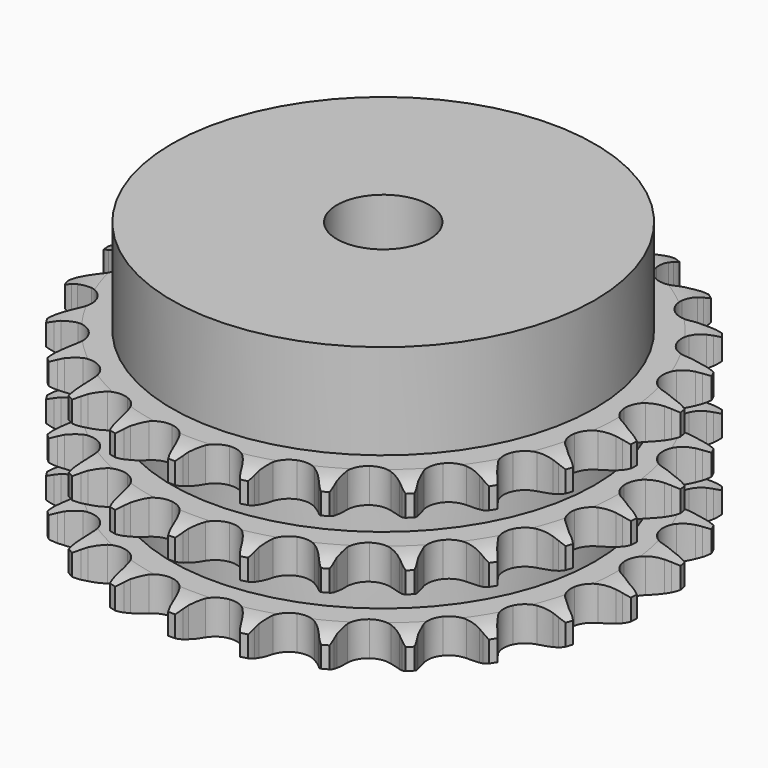
from build123d import *

# Parameters (mm, degrees)
PAD_DEPTH         = 25.6
SKETCH001_R       = 32
PAD001_DEPTH      = 40
SKETCH002_R       = 7
POCKET_DEPTH      = 0.001
POCKET_DEPTH_BACK = 40.001


with BuildPart() as part:
    # Sprocket → Pad (new body)
    with BuildSketch(Plane.XY):
        with BuildLine():
            ThreePointArc((-5.119133, 40.522108), (-4.471486, 39.716317), (-3.996424, 38.798134))
            Line((-3.996424, 38.798134), (-3.687726, 38.020039))
            ThreePointArc((-3.687726, 38.020039), (-3.194709, 36.990111), (-2.565145, 36.037499))
            ThreePointArc((-2.565145, 36.037499), (-1.430666, 35.103968), (0, 34.769725))
            ThreePointArc((0, 34.769725), (1.430666, 35.103968), (2.565145, 36.037499))
            ThreePointArc((2.565145, 36.037499), (3.194709, 36.990111), (3.687726, 38.020039))
            Line((3.687726, 38.020039), (3.996424, 38.798134))
            ThreePointArc((3.996424, 38.798134), (4.471486, 39.716317), (5.119133, 40.522108))
            ThreePointArc((5.119133, 40.522108), (5.54604, 39.58057), (5.777835, 38.573089))
            Line((5.777835, 38.573089), (5.88333, 37.74267))
            ThreePointArc((5.88333, 37.74267), (6.104725, 36.62249), (6.477605, 35.54324))
            ThreePointArc((6.477605, 35.54324), (7.344283, 34.356905), (8.646879, 33.677371))
            ThreePointArc((8.646879, 33.677371), (10.115721, 33.64532), (11.446718, 34.267389))
            Line((11.446718, 34.267389), (13.027069, 35.90847))
            ThreePointArc((13.027069, 35.90847), (13.264791, 36.253115), (13.519572, 36.585349))
            ThreePointArc((13.519572, 36.585349), (14.208053, 37.356543), (15.035744, 37.975955))
            ThreePointArc((15.035744, 37.975955), (15.215089, 36.957829), (15.18905, 35.924355))
            Line((15.18905, 35.924355), (15.084715, 35.09379))
            ThreePointArc((15.084715, 35.09379), (15.020577, 33.953744), (15.113344, 32.815669))
            ThreePointArc((15.113344, 32.815669), (15.657764, 31.45107), (16.750443, 30.468943))
            ThreePointArc((16.750443, 30.468943), (18.165168, 30.072613), (19.609051, 30.344133))
            Line((19.609051, 30.344133), (21.547873, 31.540639))
            ThreePointArc((21.547873, 31.540639), (21.863836, 31.815338), (22.193236, 32.073772))
            ThreePointArc((22.193236, 32.073772), (23.051875, 32.649519), (24.007605, 33.043633))
            ThreePointArc((24.007605, 33.043633), (23.928117, 32.012892), (23.645882, 31.018363))
            Line((23.645882, 31.018363), (23.338271, 30.239838))
            ThreePointArc((23.338271, 30.239838), (22.992631, 29.151559), (22.799455, 28.026169))
            ThreePointArc((22.799455, 28.026169), (22.987409, 26.56905), (23.801515, 25.346039))
            ThreePointArc((23.801515, 25.346039), (25.07323, 24.610333), (26.539276, 24.514244))
            Line((26.539276, 24.514244), (28.714744, 25.190994))
            ThreePointArc((28.714744, 25.190994), (29.089096, 25.378485), (29.472418, 25.546882))
            ThreePointArc((29.472418, 25.546882), (30.447263, 25.891007), (31.470979, 26.035058))
            ThreePointArc((31.470979, 26.035058), (31.137654, 25.056468), (30.616957, 24.163372))
            Line((30.616957, 24.163372), (30.125399, 23.485806))
            ThreePointArc((30.125399, 23.485806), (29.519973, 22.517674), (29.052993, 21.475681))
            ThreePointArc((29.052993, 21.475681), (28.872672, 20.017598), (29.35705, 18.630551))
            ThreePointArc((29.35705, 18.630551), (30.40585, 17.601696), (31.80194, 17.144034))
            Line((31.80194, 17.144034), (34.077363, 17.258506))
            ThreePointArc((34.077363, 17.258506), (34.486582, 17.347009), (34.899739, 17.414787))
            ThreePointArc((34.899739, 17.414787), (35.929538, 17.505666), (36.956916, 17.390605))
            ThreePointArc((36.956916, 17.390605), (36.390697, 16.525653), (35.664255, 15.790108))
            Line((35.664255, 15.790108), (35.019636, 15.256074))
            ThreePointArc((35.019636, 15.256074), (34.192466, 14.468921), (33.481025, 13.575797))
            ThreePointArc((33.481025, 13.575797), (32.943758, 12.208367), (33.067974, 10.744436))
            ThreePointArc((33.067974, 10.744436), (33.827958, 9.487079), (35.066372, 8.696602))
            Line((35.066372, 8.696602), (37.298776, 8.241602))
            ThreePointArc((37.298776, 8.241602), (37.717148, 8.225557), (38.134181, 8.188458))
            ThreePointArc((38.134181, 8.188458), (39.154228, 8.020381), (40.120714, 7.653436))
            ThreePointArc((40.120714, 7.653436), (39.357179, 6.956471), (38.470637, 6.424693))
            Line((38.470637, 6.424693), (37.713461, 6.067747))
            ThreePointArc((37.713461, 6.067747), (36.716522, 5.511033), (35.805321, 4.822897))
            ThreePointArc((35.805321, 4.822897), (34.944866, 3.632039), (34.701115, 2.183209))
            ThreePointArc((34.701115, 2.183209), (35.124531, 0.776354), (36.127454, -0.29727))
            Line((36.127454, -0.29727), (38.17657, -1.293151))
            ThreePointArc((38.17657, -1.293151), (38.577807, -1.412737), (38.972512, -1.552383))
            ThreePointArc((38.972512, -1.552383), (39.918713, -1.968854), (40.76358, -2.564627))
            ThreePointArc((40.76358, -2.564627), (39.850705, -3.049812), (38.859767, -3.344409))
            Line((38.859767, -3.344409), (38.037611, -3.501839))
            ThreePointArc((38.037611, -3.501839), (36.933543, -3.793134), (35.879836, -4.233045))
            ThreePointArc((35.879836, -4.233045), (34.75026, -5.172503), (34.153858, -6.515197))
            ThreePointArc((34.153858, -6.515197), (34.2141, -7.983152), (34.918516, -9.272463))
            Line((34.918516, -9.272463), (36.655589, -10.746651))
            ThreePointArc((36.655589, -10.746651), (37.014481, -10.962264), (37.362057, -11.195681))
            ThreePointArc((37.362057, -11.195681), (38.174959, -11.83438), (38.845121, -12.621545))
            ThreePointArc((38.845121, -12.621545), (37.840265, -12.864464), (36.807195, -12.903369))
            Line((36.807195, -12.903369), (35.971718, -12.851391))
            ThreePointArc((35.971718, -12.851391), (34.829894, -12.858964), (33.69989, -13.023008))
            ThreePointArc((33.69989, -13.023008), (32.372168, -13.652038), (31.460588, -14.804229))
            ThreePointArc((31.460588, -14.804229), (31.153872, -16.241048), (31.515518, -17.665033))
            Line((31.515518, -17.665033), (32.831403, -19.5249))
            ThreePointArc((32.831403, -19.5249), (33.125399, -19.822991), (33.404006, -20.135514))
            ThreePointArc((33.404006, -20.135514), (34.032532, -20.956307), (34.485879, -21.885404))
            ThreePointArc((34.485879, -21.885404), (33.452181, -21.870794), (32.441892, -21.651564))
            Line((32.441892, -21.651564), (31.645589, -21.393443))
            ThreePointArc((31.645589, -21.393443), (30.537754, -21.116818), (29.402455, -20.994688))
            ThreePointArc((29.402455, -20.994688), (27.960013, -21.273765), (26.790534, -22.163057))
            ThreePointArc((26.790534, -22.163057), (26.136132, -23.478458), (26.132285, -24.947645))
            Line((26.132285, -24.947645), (26.944299, -27.076327))
            ThreePointArc((26.944299, -27.076327), (27.154926, -27.438167), (27.347059, -27.810159))
            ThreePointArc((27.347059, -27.810159), (27.751716, -28.761473), (27.959763, -29.774124))
            ThreePointArc((27.959763, -29.774124), (26.962174, -29.502902), (26.038146, -29.03931))
            Line((26.038146, -29.03931), (25.331051, -28.591267))
            ThreePointArc((25.331051, -28.591267), (24.326815, -28.047825), (23.257556, -27.647195))
            ThreePointArc((23.257556, -27.647195), (21.791028, -27.558783), (20.437132, -28.129299))
            ThreePointArc((20.437132, -28.129299), (19.476162, -29.240631), (19.107065, -30.662704))
            Line((19.107065, -30.662704), (19.364185, -32.926449))
            ThreePointArc((19.364185, -32.926449), (19.478209, -33.329303), (19.571796, -33.737388))
            ThreePointArc((19.571796, -33.737388), (19.727157, -34.759449), (19.676832, -35.792025))
            ThreePointArc((19.676832, -35.792025), (18.778034, -35.281234), (17.998326, -34.602411))
            Line((17.998326, -34.602411), (17.424871, -33.992596))
            ThreePointArc((17.424871, -33.992596), (16.587333, -33.216484), (15.6513, -32.562526))
            ThreePointArc((15.6513, -32.562526), (14.252832, -32.112181), (12.79959, -32.328073))
            ThreePointArc((12.79959, -32.328073), (11.592433, -33.165507), (10.881277, -34.451112))
            Line((10.881277, -34.451112), (10.567349, -36.707681))
            ThreePointArc((10.567349, -36.707681), (10.577605, -37.126235), (10.566765, -37.544774))
            ThreePointArc((10.566765, -37.544774), (10.463069, -38.573362), (10.157534, -39.560982))
            ThreePointArc((10.157534, -39.560982), (9.414002, -38.842717), (8.827606, -37.991314))
            Line((8.827606, -37.991314), (8.423822, -37.258045))
            ThreePointArc((8.423822, -37.258045), (7.805608, -36.298029), (7.061614, -35.431835))
            ThreePointArc((7.061614, -35.431835), (5.819078, -34.647853), (4.357802, -34.495556))
            ThreePointArc((4.357802, -34.495556), (2.980309, -35.006473), (1.971778, -36.074831))
            Line((1.971778, -36.074831), (1.106527, -38.182435))
            ThreePointArc((1.106527, -38.182435), (1.012371, -38.590389), (0.897785, -38.993083))
            ThreePointArc((0.897785, -38.993083), (0.541547, -39.963568), (0, -40.844177))
            ThreePointArc((0, -40.844177), (-0.541547, -39.963568), (-0.897785, -38.993083))
            Line((-0.897785, -38.993083), (-1.106527, -38.182435))
            ThreePointArc((-1.106527, -38.182435), (-1.466573, -37.098836), (-1.971778, -36.074831))
            ThreePointArc((-1.971778, -36.074831), (-2.980309, -35.006473), (-4.357802, -34.495556))
            ThreePointArc((-4.357802, -34.495556), (-5.819078, -34.647853), (-7.061614, -35.431835))
            Line((-7.061614, -35.431835), (-8.423822, -37.258045))
            ThreePointArc((-8.423822, -37.258045), (-8.616474, -37.629768), (-8.827606, -37.991314))
            ThreePointArc((-8.827606, -37.991314), (-9.414002, -38.842717), (-10.157534, -39.560982))
            ThreePointArc((-10.157534, -39.560982), (-10.463069, -38.573362), (-10.566765, -37.544774))
            Line((-10.566765, -37.544774), (-10.567349, -36.707681))
            ThreePointArc((-10.567349, -36.707681), (-10.646603, -35.568586), (-10.881277, -34.451112))
            ThreePointArc((-10.881277, -34.451112), (-11.592433, -33.165507), (-12.79959, -32.328073))
            ThreePointArc((-12.79959, -32.328073), (-14.252832, -32.112181), (-15.6513, -32.562526))
            Line((-15.6513, -32.562526), (-17.424871, -33.992596))
            ThreePointArc((-17.424871, -33.992596), (-17.703914, -34.30473), (-17.998326, -34.602411))
            ThreePointArc((-17.998326, -34.602411), (-18.778034, -35.281234), (-19.676832, -35.792025))
            ThreePointArc((-19.676832, -35.792025), (-19.727157, -34.759449), (-19.571796, -33.737388))
            Line((-19.571796, -33.737388), (-19.364185, -32.926449))
            ThreePointArc((-19.364185, -32.926449), (-19.157668, -31.803431), (-19.107065, -30.662704))
            ThreePointArc((-19.107065, -30.662704), (-19.476162, -29.240631), (-20.437132, -28.129299))
            ThreePointArc((-20.437132, -28.129299), (-21.791028, -27.558783), (-23.257556, -27.647195))
            Line((-23.257556, -27.647195), (-25.331051, -28.591267))
            ThreePointArc((-25.331051, -28.591267), (-25.678953, -28.824199), (-26.038146, -29.03931))
            ThreePointArc((-26.038146, -29.03931), (-26.962174, -29.502902), (-27.959763, -29.774124))
            ThreePointArc((-27.959763, -29.774124), (-27.751716, -28.761473), (-27.347059, -27.810159))
            Line((-27.347059, -27.810159), (-26.944299, -27.076327))
            ThreePointArc((-26.944299, -27.076327), (-26.464986, -26.039949), (-26.132285, -24.947645))
            ThreePointArc((-26.132285, -24.947645), (-26.136132, -23.478458), (-26.790534, -22.163057))
            ThreePointArc((-26.790534, -22.163057), (-27.960013, -21.273765), (-29.402455, -20.994688))
            Line((-29.402455, -20.994688), (-31.645589, -21.393443))
            ThreePointArc((-31.645589, -21.393443), (-32.040488, -21.532538), (-32.441892, -21.651564))
            ThreePointArc((-32.441892, -21.651564), (-33.452181, -21.870794), (-34.485879, -21.885404))
            ThreePointArc((-34.485879, -21.885404), (-34.032532, -20.956307), (-33.404006, -20.135514))
            Line((-33.404006, -20.135514), (-32.831403, -19.5249))
            ThreePointArc((-32.831403, -19.5249), (-32.109412, -18.640282), (-31.515518, -17.665033))
            ThreePointArc((-31.515518, -17.665033), (-31.153872, -16.241048), (-31.460588, -14.804229))
            ThreePointArc((-31.460588, -14.804229), (-32.372168, -13.652038), (-33.69989, -13.023008))
            Line((-33.69989, -13.023008), (-35.971718, -12.851391))
            ThreePointArc((-35.971718, -12.851391), (-36.388801, -12.887908), (-36.807195, -12.903369))
            ThreePointArc((-36.807195, -12.903369), (-37.840265, -12.864464), (-38.845121, -12.621545))
            ThreePointArc((-38.845121, -12.621545), (-38.174959, -11.83438), (-37.362057, -11.195681))
            Line((-37.362057, -11.195681), (-36.655589, -10.746651))
            ThreePointArc((-36.655589, -10.746651), (-35.736285, -10.069377), (-34.918516, -9.272463))
            ThreePointArc((-34.918516, -9.272463), (-34.2141, -7.983152), (-34.153858, -6.515197))
            ThreePointArc((-34.153858, -6.515197), (-34.75026, -5.172503), (-35.879836, -4.233045))
            Line((-35.879836, -4.233045), (-38.037611, -3.501839))
            ThreePointArc((-38.037611, -3.501839), (-38.450673, -3.433484), (-38.859767, -3.344409))
            ThreePointArc((-38.859767, -3.344409), (-39.850705, -3.049812), (-40.76358, -2.564627))
            ThreePointArc((-40.76358, -2.564627), (-39.918713, -1.968854), (-38.972512, -1.552383))
            Line((-38.972512, -1.552383), (-38.17657, -1.293151))
            ThreePointArc((-38.17657, -1.293151), (-37.117716, -0.865777), (-36.127454, -0.29727))
            ThreePointArc((-36.127454, -0.29727), (-35.124531, 0.776354), (-34.701115, 2.183209))
            ThreePointArc((-34.701115, 2.183209), (-34.944866, 3.632039), (-35.805321, 4.822897))
            Line((-35.805321, 4.822897), (-37.713461, 6.067747))
            ThreePointArc((-37.713461, 6.067747), (-38.096547, 6.236679), (-38.470637, 6.424693))
            ThreePointArc((-38.470637, 6.424693), (-39.357179, 6.956471), (-40.120714, 7.653436))
            ThreePointArc((-40.120714, 7.653436), (-39.154228, 8.020381), (-38.134181, 8.188458))
            Line((-38.134181, 8.188458), (-37.298776, 8.241602))
            ThreePointArc((-37.298776, 8.241602), (-36.166905, 8.392224), (-35.066372, 8.696602))
            ThreePointArc((-35.066372, 8.696602), (-33.827958, 9.487079), (-33.067974, 10.744436))
            ThreePointArc((-33.067974, 10.744436), (-32.943758, 12.208367), (-33.481025, 13.575797))
            Line((-33.481025, 13.575797), (-35.019636, 15.256074))
            ThreePointArc((-35.019636, 15.256074), (-35.348675, 15.514968), (-35.664255, 15.790108))
            ThreePointArc((-35.664255, 15.790108), (-36.390697, 16.525653), (-36.956916, 17.390605))
            ThreePointArc((-36.956916, 17.390605), (-35.929538, 17.505666), (-34.899739, 17.414787))
            Line((-34.899739, 17.414787), (-34.077363, 17.258506))
            ThreePointArc((-34.077363, 17.258506), (-32.943594, 17.122911), (-31.80194, 17.144034))
            ThreePointArc((-31.80194, 17.144034), (-30.40585, 17.601696), (-29.35705, 18.630551))
            ThreePointArc((-29.35705, 18.630551), (-28.872672, 20.017598), (-29.052993, 21.475681))
            Line((-29.052993, 21.475681), (-30.125399, 23.485806))
            ThreePointArc((-30.125399, 23.485806), (-30.379716, 23.818395), (-30.616957, 24.163372))
            ThreePointArc((-30.616957, 24.163372), (-31.137654, 25.056468), (-31.470979, 26.035058))
            ThreePointArc((-31.470979, 26.035058), (-30.447263, 25.891007), (-29.472418, 25.546882))
            Line((-29.472418, 25.546882), (-28.714744, 25.190994))
            ThreePointArc((-28.714744, 25.190994), (-27.650316, 24.777701), (-26.539276, 24.514244))
            ThreePointArc((-26.539276, 24.514244), (-25.07323, 24.610333), (-23.801515, 25.346039))
            ThreePointArc((-23.801515, 25.346039), (-22.987409, 26.56905), (-22.799455, 28.026169))
            Line((-22.799455, 28.026169), (-23.338271, 30.239838))
            ThreePointArc((-23.338271, 30.239838), (-23.501887, 30.625224), (-23.645882, 31.018363))
            ThreePointArc((-23.645882, 31.018363), (-23.928117, 32.012892), (-24.007605, 33.043633))
            ThreePointArc((-24.007605, 33.043633), (-23.051875, 32.649519), (-22.193236, 32.073772))
            Line((-22.193236, 32.073772), (-21.547873, 31.540639))
            ThreePointArc((-21.547873, 31.540639), (-20.619666, 30.875618), (-19.609051, 30.344133))
            ThreePointArc((-19.609051, 30.344133), (-18.165168, 30.072613), (-16.750443, 30.468943))
            ThreePointArc((-16.750443, 30.468943), (-15.657764, 31.45107), (-15.113344, 32.815669))
            Line((-15.113344, 32.815669), (-15.084715, 35.09379))
            ThreePointArc((-15.084715, 35.09379), (-15.147349, 35.507758), (-15.18905, 35.924355))
            ThreePointArc((-15.18905, 35.924355), (-15.215089, 36.957829), (-15.035744, 37.975955))
            ThreePointArc((-15.035744, 37.975955), (-14.208053, 37.356543), (-13.519572, 36.585349))
            Line((-13.519572, 36.585349), (-13.027069, 35.90847))
            ThreePointArc((-13.027069, 35.90847), (-12.293408, 35.033506), (-11.446718, 34.267389))
            ThreePointArc((-11.446718, 34.267389), (-10.115721, 33.64532), (-8.646879, 33.677371))
            ThreePointArc((-8.646879, 33.677371), (-7.344283, 34.356905), (-6.477605, 35.54324))
            Line((-6.477605, 35.54324), (-5.88333, 37.74267))
            ThreePointArc((-5.88333, 37.74267), (-5.841047, 38.159209), (-5.777835, 38.573089))
            ThreePointArc((-5.777835, 38.573089), (-5.54604, 39.58057), (-5.119133, 40.522108))
        make_face()
    extrude(amount=PAD_DEPTH)

    # Sketch → Groove (revolve, cut)
    with BuildSketch(Plane.XZ):
        with BuildLine():
            ThreePointArc((35.641101, 0), (37.877169, 0.253206), (40, 1))
            Line((40, 1), (40, 4.2))
            ThreePointArc((40, 4.2), (37.877169, 4.946794), (35.641101, 5.2))
            Line((32, 5.2), (35.641101, 5.2))
            Line((32, 5.2), (32, 10.2))
            Line((32, 10.2), (35.641101, 10.2))
            ThreePointArc((35.641101, 10.2), (37.877169, 10.453206), (40, 11.2))
            Line((40, 14.4), (40, 11.2))
            ThreePointArc((40, 14.4), (37.877169, 15.146794), (35.641101, 15.4))
            Line((32, 15.4), (35.641101, 15.4))
            Line((32, 20.4), (32, 15.4))
            Line((35.641101, 20.4), (32, 20.4))
            ThreePointArc((35.641101, 20.4), (37.877169, 20.653206), (40, 21.4))
            Line((40, 21.4), (40, 24.6))
            ThreePointArc((40, 24.6), (37.877169, 25.346794), (35.641101, 25.6))
            Line((35.641101, 25.6), (50, 25.6))
            Line((50, 25.6), (50, 0))
            Line((35.641101, 0), (50, 0))
        make_face()
    revolve(axis=Axis((0, 0, 0), (0, 0, 1)), mode=Mode.SUBTRACT)

    # Sketch001 → Pad001 (join)
    with BuildSketch(Plane.XY):
        Circle(SKETCH001_R)
    extrude(amount=PAD001_DEPTH)

    # Sketch002 → Pocket (cut, two sides)
    with BuildSketch(Plane.XY) as pocket_sk:
        Circle(SKETCH002_R)
    extrude(amount=-POCKET_DEPTH, mode=Mode.SUBTRACT)
    extrude(pocket_sk.sketch, amount=POCKET_DEPTH_BACK, mode=Mode.SUBTRACT)


solid = part.part
